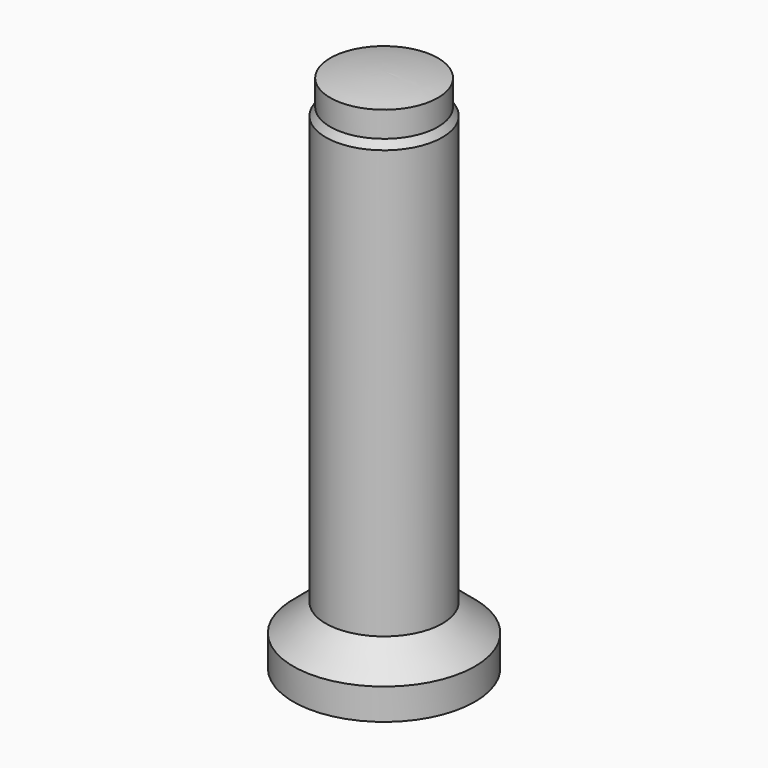
from build123d import *


with BuildPart() as f1:
    # F0 (on Front) → F1 (revolve)
    with BuildSketch(Plane.XZ):
        with BuildLine():
            ThreePointArc((13.845299, 133.575579), (6.95919, 134.642957), (0, 135))
            Line((0, 135), (0, 125))
            Line((0, 125), (10.75, 125))
            Line((10.75, 125), (10.75, 0))
            Line((10.75, 0), (23.342275, 0))
            Line((23.342275, 0), (23.342275, 8))
            Line((23.342275, 8), (15, 15))
            Line((15, 15), (15, 125))
            Line((15, 125), (13.845299, 127))
            Line((13.845299, 127), (13.845299, 133.575579))
        make_face()
    revolve(axis=Axis((0, 0, 8.877954), (0, 0, -1)))


solid = f1.part
